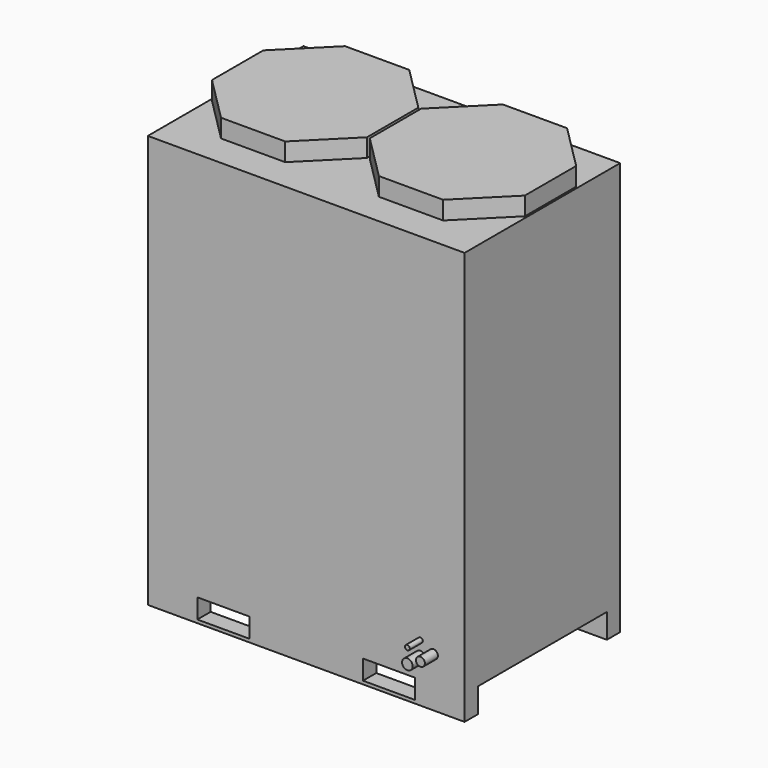
from build123d import *

# Parameters (mm, degrees)
F0_W     = 1235.329
F0_H     = 1610.36
F0_W_2   = 203.2
F0_H_2   = 76.2
F1_DEPTH = 758.444
F2_W     = 628.904
F2_H     = 203.2
F3_DEPTH = 1235.33
F5_DEPTH = 71.12
F6_R     = 9.525
F6_R_2   = 17.4625
F6_R_3   = 20.6375
F7_DEPTH = 63.5


with BuildPart() as f1:
    # F0 (on Front) → F1 (new body)
    with BuildSketch(Plane.XZ):
        with Locations((617.6645, 805.18)):
            Rectangle(F0_W, F0_H)
        with Locations((294.64, 50.8)):
            Rectangle(F0_W_2, F0_H_2, mode=Mode.SUBTRACT)
        with Locations((940.689, 50.8)):
            Rectangle(F0_W_2, F0_H_2, mode=Mode.SUBTRACT)
    extrude(amount=F1_DEPTH)

    # F2 (on face) → F3 (cut, through all)
    with BuildSketch(Plane(origin=(0, 0, 0), x_dir=(0, -1, 0), z_dir=(-1, 0, 0))):
        with Locations((379.222, -5.842)):
            Rectangle(F2_W, F2_H)
    extrude(amount=-F3_DEPTH, mode=Mode.SUBTRACT)

    # F4 (on face) → F5 (join)
    with BuildSketch(Plane.XY.offset(1610.36)):
        Polygon((435.080191, -632.46), (612.14, -455.400191), (612.14, -204.999809), (435.080191, -27.94), (184.679809, -27.94), (7.62, -204.999809), (7.62, -455.400191), (184.679809, -632.46), align=None)
        Polygon((1050.649191, -632.46), (1227.709, -455.400191), (1227.709, -204.999809), (1050.649191, -27.94), (800.248809, -27.94), (623.189, -204.999809), (623.189, -455.400191), (800.248809, -632.46), align=None)
    extrude(amount=F5_DEPTH)

    # F6 (on face) → F7 (join)
    with BuildSketch(Plane.XZ.offset(758.444)):
        with Locations((1062.99, 224.79)):
            Circle(F6_R)
        with Locations((1113.79, 193.04)):
            Circle(F6_R_2)
        with Locations((1062.99, 167.64)):
            Circle(F6_R_3)
    extrude(amount=F7_DEPTH)


solid = f1.part
